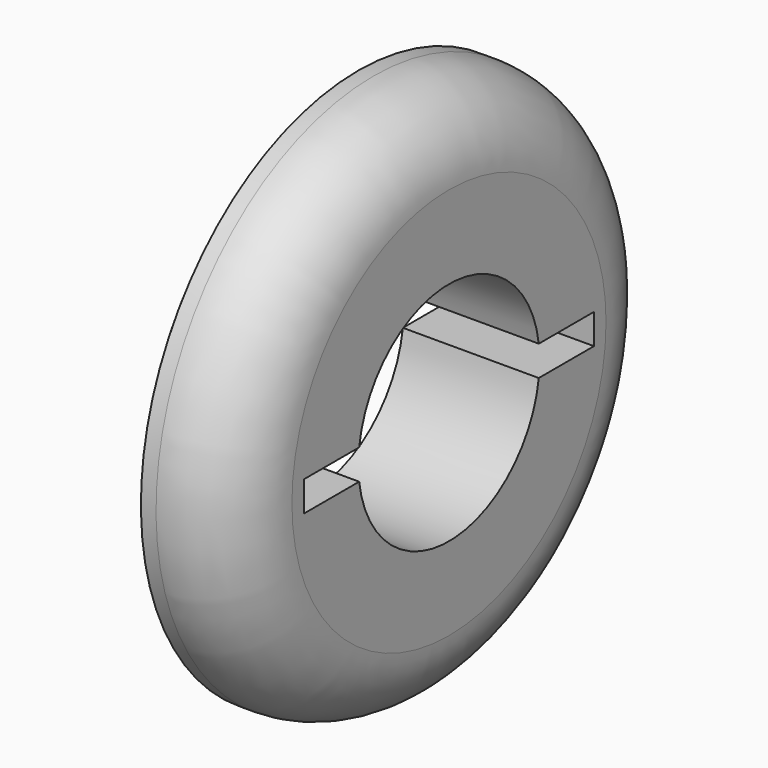
from build123d import *

# Parameters (mm, degrees)
F2_R     = 5
F4_DEPTH = 9.001


with BuildPart() as f1:
    # F0 (on Front) → F1 (revolve)
    with BuildSketch(Plane.XZ):
        Polygon((0, 11.8), (0, 7.5), (9, 7.5), (9, 18), (3, 18), (3, 15.75), (1.5, 15.75), (1.5, 14.25), (3, 14.25), (3, 11.8), align=None)
    revolve(axis=Axis((4.5, 0, 0), (1, 0, 0)))

    # F2
    f2_edges = [f1.edges().sort_by_distance(p)[0] for p in [
        (9, 0, -18),
    ]]
    fillet(f2_edges, radius=F2_R)

    # F3 (on face) → F4 (cut, through all)
    with BuildSketch(Plane.YZ.offset(9)):
        with BuildLine():
            Line((-7.433034, 1), (-12, 1))
            Line((-12, 1), (-12, -1))
            Line((-12, -1), (-7.433034, -1))
            ThreePointArc((-7.433034, -1), (-7.5, 0), (-7.433034, 1))
        make_face()
        with BuildLine():
            Line((7.433034, 1), (-7.433034, 1))
            ThreePointArc((-7.433034, 1), (-7.5, 0), (-7.433034, -1))
            Line((-7.433034, -1), (7.433034, -1))
            ThreePointArc((7.433034, -1), (7.48324, -0.50112), (7.5, 0))
            ThreePointArc((7.5, 0), (7.48324, 0.50112), (7.433034, 1))
        make_face()
        with BuildLine():
            Line((12, 1), (7.433034, 1))
            ThreePointArc((7.433034, 1), (7.48324, 0.50112), (7.5, 0))
            ThreePointArc((7.5, 0), (7.48324, -0.50112), (7.433034, -1))
            Line((7.433034, -1), (12, -1))
            Line((12, -1), (12, 1))
        make_face()
    extrude(amount=-F4_DEPTH, mode=Mode.SUBTRACT)


solid = f1.part
